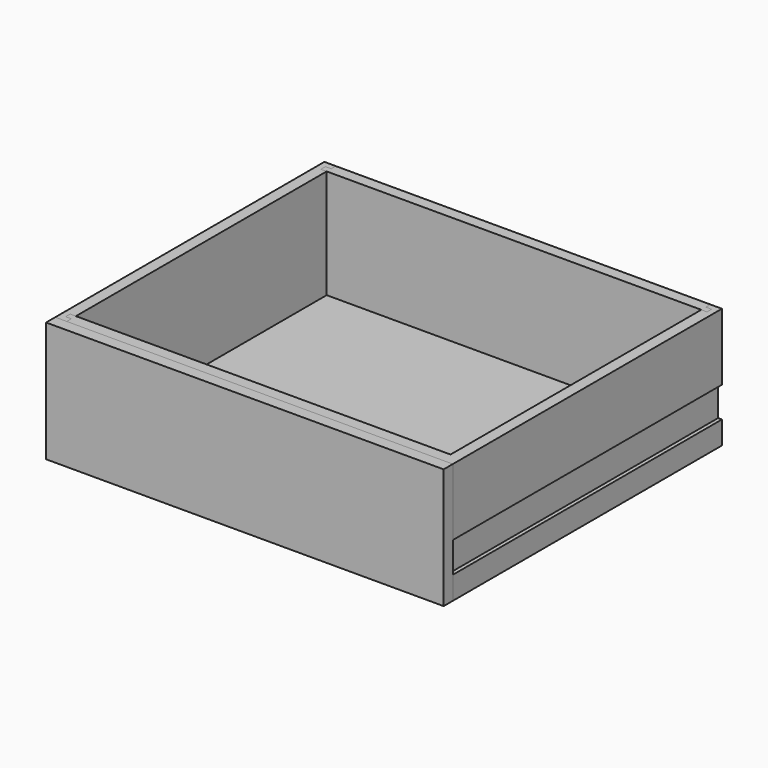
from build123d import *

# Parameters (mm, degrees)
F1_DEPTH  = 200.025
F4_DEPTH  = 200.025
F6_W      = 641.35
F6_H      = 6.350001
F7_DEPTH  = 549.275
F9_DEPTH  = 549.275
F11_DEPTH = 19.05
F12_W     = 558.8
F12_H     = 50.8
F13_DEPTH = 6.35
F14_W     = 558.8
F14_H     = 50.8
F15_DEPTH = 6.35


with BuildPart() as f1:
    # F0 (on Top) → F1 (new body)
    with BuildSketch(Plane.XY):
        Polygon((-311.15, -269.875), (-311.15, -279.4), (311.15, -279.4), (311.15, -269.875), (320.675, -269.875), (320.675, -260.35), (-320.675, -260.35), (-320.675, -269.875), align=None)
    extrude(amount=-F1_DEPTH)


with BuildPart() as f2_1:
    # F2: instance of F1
    add(f1.part.mirror(Plane.XZ))


with BuildPart() as f4:
    # F3 (on Top) → F4 (new body)
    with BuildSketch(Plane.XY):
        Polygon((-311.15, 260.35), (-320.675, 260.35), (-320.675, 269.875), (-311.15, 269.875), (-311.15, 279.4), (-330.2, 279.4), (-330.2, -279.4), (-311.15, -279.4), (-311.15, -269.875), (-320.675, -269.875), (-320.675, -260.35), (-311.15, -260.35), align=None)
        Polygon((320.675, -260.35), (-311.15, -260.35), (-320.675, -260.35), (-320.675, -269.875), (-311.15, -269.875), (-311.15, -279.4), (311.15, -279.4), (311.15, -269.875), (320.675, -269.875), align=None)
    extrude(amount=-F4_DEPTH)


with BuildPart() as f5_1:
    # F5: instance of F4
    add(f4.part.mirror(Plane.YZ))


with BuildPart() as f7_tool:
    # F6 (on face) → F7 (new body)
    with BuildSketch(Plane(origin=(0, 279.4, 0), x_dir=(-1, 0, 0), z_dir=(0, 1, 0))):
        with Locations((0, -184.15)):
            Rectangle(F6_W, F6_H)
    extrude(amount=-F7_DEPTH)


with BuildPart() as f1_1:
    add(f1.part)

    # F7: cut by f7_tool
    add(f7_tool.part, mode=Mode.SUBTRACT)


with BuildPart() as f2_1_1:
    add(f2_1.part)

    # F7: cut by f7_tool
    add(f7_tool.part, mode=Mode.SUBTRACT)


with BuildPart() as f4_1:
    add(f4.part)

    # F7: cut by f7_tool
    add(f7_tool.part, mode=Mode.SUBTRACT)

    # F14 (on face) → F15 (cut)
    with BuildSketch(Plane(origin=(-330.2, 0, 0), x_dir=(0, -1, 0), z_dir=(-1, 0, 0))):
        with Locations((0, -136.525)):
            Rectangle(F14_W, F14_H)
    extrude(amount=-F15_DEPTH, mode=Mode.SUBTRACT)


with BuildPart() as f5_1_1:
    add(f5_1.part)

    # F7: cut by f7_tool
    add(f7_tool.part, mode=Mode.SUBTRACT)

    # F12 (on face) → F13 (cut)
    with BuildSketch(Plane.YZ.offset(330.2)):
        with Locations((0, -136.525)):
            Rectangle(F12_W, F12_H)
    extrude(amount=-F13_DEPTH, mode=Mode.SUBTRACT)


with BuildPart() as f9:
    # F8 (on face) → F9 (new body, through all)
    with BuildSketch(Plane(origin=(0, 279.4, 0), x_dir=(-1, 0, 0), z_dir=(0, 1, 0))):
        Polygon((-320.675, -180.975), (-320.675, -187.325001), (-311.15, -187.325001), (311.15, -187.325001), (320.675, -187.325001), (320.675, -180.975), (311.15, -180.975), (-311.15, -180.975), align=None)
    extrude(amount=-F9_DEPTH)


with BuildPart() as f11:
    # F10 (on face) → F11 (new body)
    with BuildSketch(Plane.XZ.offset(279.4)):
        Polygon((-330.2, 0), (-330.2, -200.025), (-311.15, -200.025), (311.15, -200.025), (330.2, -200.025), (330.2, 0), (311.15, 0), (-311.15, 0), align=None)
    extrude(amount=F11_DEPTH)


solid = Compound([f1_1.part, f2_1_1.part, f4_1.part, f5_1_1.part, f9.part, f11.part])
